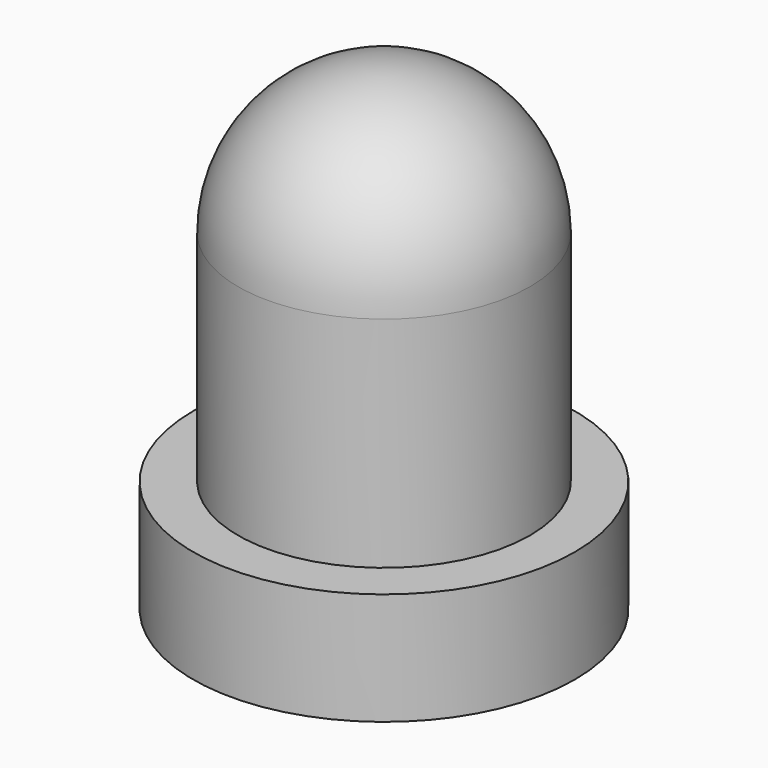
from build123d import *

# Parameters (mm, degrees)
SKETCH099_R     = 1.7
PAD041_DEPTH    = 1
SKETCH100_R     = 1.3
PAD042_DEPTH    = 3.25
FILLET_R        = 1.3
SKETCH101_R     = 0.75
HOLE_DEPTH      = 0.75
HOLE_TIPS_R     = 0.75
CHAMFER021_SIZE = 0.74


with BuildPart() as part:
    # Sketch099 → Pad041 (new body)
    with BuildSketch(Plane.XY):
        Circle(SKETCH099_R)
    extrude(amount=PAD041_DEPTH)

    # Sketch100 → Pad042 (join)
    with BuildSketch(Plane.XY.offset(1)):
        Circle(SKETCH100_R)
    extrude(amount=PAD042_DEPTH)

    # Fillet
    fillet_edges = [part.edges().sort_by_distance(p)[0] for p in [
        (-1.3, 0, 4.25),
    ]]
    fillet(fillet_edges, radius=FILLET_R)

    # Sketch101 → Hole (cut)
    with BuildSketch(Plane.XY):
        Circle(SKETCH101_R)
    extrude(amount=HOLE_DEPTH, mode=Mode.SUBTRACT)

    # Hole tips → Hole tip 1 section 0
    with BuildSketch(Plane.XY.offset(0.75), mode=Mode.PRIVATE) as hole_tip_1_s0:
        Circle(HOLE_TIPS_R)
    loft([hole_tip_1_s0.sketch, Vertex(0, 0, 1.200645)], mode=Mode.SUBTRACT)

    # Chamfer021
    chamfer021_edges = [part.edges().sort_by_distance(p)[0] for p in [
        (0.75, 0, 0),
    ]]
    chamfer(chamfer021_edges, length=CHAMFER021_SIZE)


solid = part.part
